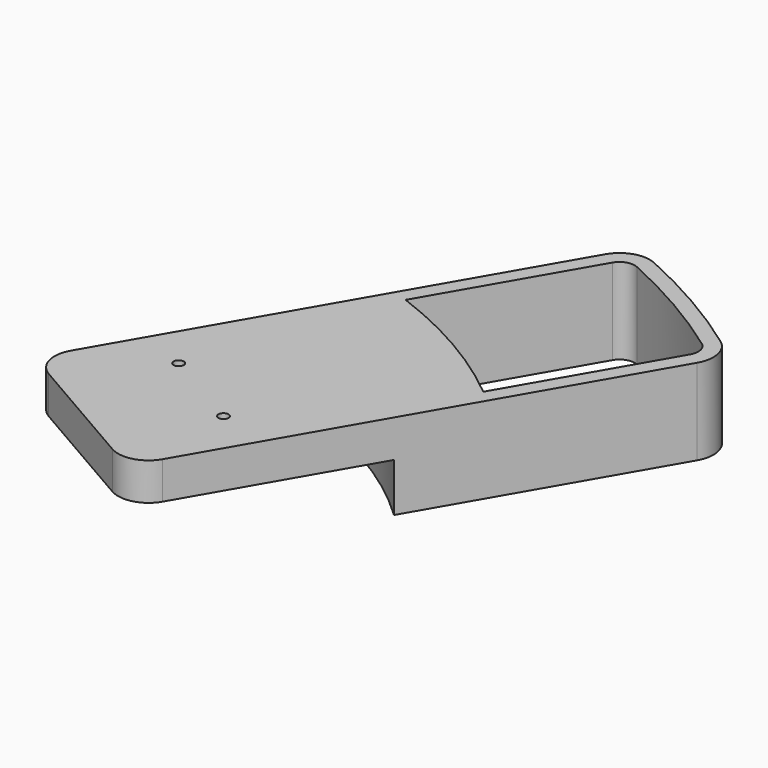
from build123d import *

# Parameters (mm, degrees)
PAD018_DEPTH    = 8.5
FILLET008_R     = 6
FILLET009_R     = 3
SKETCH032_R     = 84.3
POCKET021_DEPTH = 9.6
SKETCH033_R     = 1
POCKET022_DEPTH = 17.001
FILLET010_R     = 6


with BuildPart() as part:
    # Sketch031 → Pad018 (new body, symmetric)
    with BuildSketch(Plane.XY):
        with BuildLine():
            Line((226.925203, 42.33455), (276.925203, 128.93709))
            ThreePointArc((310.700194, 109.43709), (294.5, 120.377531), (276.925203, 128.93709))
            Line((260.700194, 22.83455), (310.700194, 109.43709))
            Line((226.925203, 42.33455), (260.700194, 22.83455))
        make_face()
        with BuildLine():
            Line((259.708266, 93.11648), (278.208266, 125.15942))
            ThreePointArc((306.787104, 108.65942), (293, 117.779455), (278.208266, 125.15942))
            Line((288.287104, 76.61648), (306.787104, 108.65942))
            ThreePointArc((288.287104, 76.61648), (274.687379, 86.061065), (259.708266, 93.11648))
        make_face(mode=Mode.SUBTRACT)
    extrude(amount=PAD018_DEPTH, both=True)

    # Fillet008
    fillet008_edges = [part.edges().sort_by_distance(p)[0] for p in [
        (310.700194, 109.43709, 0),
        (276.925203, 128.93709, 0),
    ]]
    fillet(fillet008_edges, radius=FILLET008_R)

    # Fillet009
    fillet009_edges = [part.edges().sort_by_distance(p)[0] for p in [
        (278.208266, 125.15942, 0),
        (306.787104, 108.65942, 0),
    ]]
    fillet(fillet009_edges, radius=FILLET009_R)

    # Sketch032 (on Face1 of Fillet009) → Pocket021 (cut)
    with BuildSketch(Plane(origin=(0, 0, -8.5), x_dir=(1, 0, 0), z_dir=(0, 0, -1))):
        with Locations((225, 0)):
            Circle(SKETCH032_R)
    extrude(amount=-POCKET021_DEPTH, mode=Mode.SUBTRACT)

    # Sketch033 (on Face15 of Pocket021) → Pocket022 (cut, through all)
    with BuildSketch(Plane.XY.offset(8.5)):
        with Locations((245.585457, 54.655058)):
            Circle(SKETCH033_R)
        with Locations((262.03994, 45.155058)):
            Circle(SKETCH033_R)
    extrude(amount=-POCKET022_DEPTH, mode=Mode.SUBTRACT)

    # Fillet010
    fillet010_edges = [part.edges().sort_by_distance(p)[0] for p in [
        (226.925203, 42.33455, 4.8),
        (260.700194, 22.83455, 4.8),
    ]]
    fillet(fillet010_edges, radius=FILLET010_R)


solid = part.part
